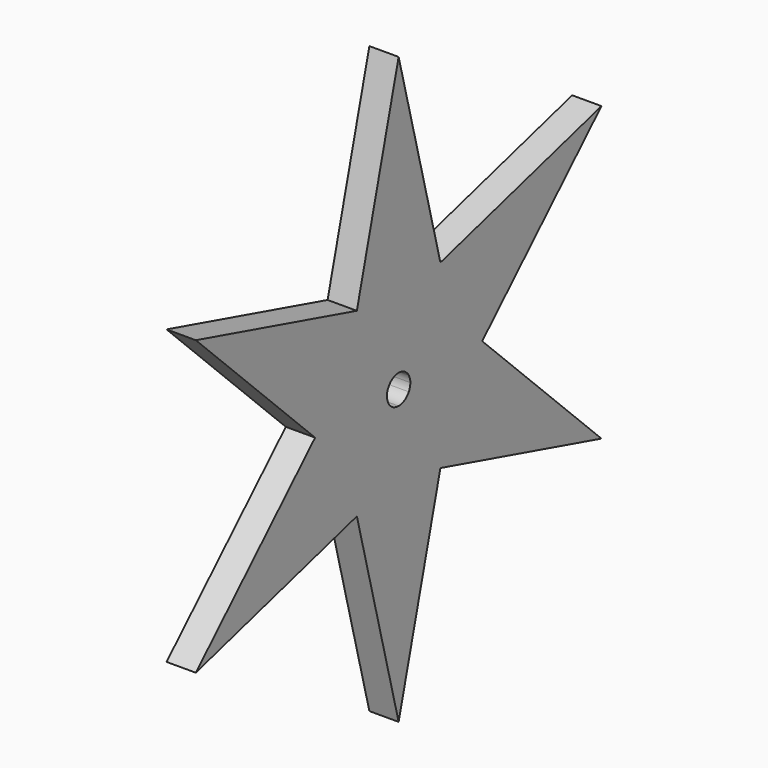
from build123d import *

# Parameters (mm, degrees)
F1_DEPTH = 5.08


with BuildPart() as f1:
    # F0 (on Right) → F1 (new body)
    with BuildSketch(Plane.YZ):
        with BuildLine():
            Line((0, -13.1807618078), (-3.3987304051, -12.2367737428))
            ThreePointArc((-3.3987304051, -12.2367737428), (-6.35, -10.9985226281), (-8.8979917191, -9.0617737428))
            Line((-8.8979917191, -9.0617737428), (-11.4148745668, -6.5903809039))
            Line((-11.4148745668, -6.5903809039), (-9.0632810802, -15.6980633142))
            Line((-9.0632810802, -15.6980633142), (0, -13.1807618078))
        make_face()
        with BuildLine():
            ThreePointArc((-8.8979917191, 9.0617737428), (-6.35, 10.9985226281), (-3.3987304051, 12.2367737428))
            Line((-3.3987304051, 12.2367737428), (0, 13.1807618078))
            Line((0, 13.1807618078), (-9.0632810802, 15.6980633142))
            Line((-9.0632810802, 15.6980633142), (-11.4148745668, 6.5903809039))
            Line((-11.4148745668, 6.5903809039), (-8.8979917191, 9.0617737428))
        make_face()
        with BuildLine():
            ThreePointArc((-2.1997045256, -1.27), (-2.54, 0), (-2.1997045256, 1.27))
            Line((-2.1997045256, 1.27), (-10.9985226281, 6.35))
            ThreePointArc((-10.9985226281, 6.35), (-11.7553078763, 4.8065306337), (-12.2967221242, 3.175))
            ThreePointArc((-12.2967221242, 3.175), (-12.7, 0), (-12.2967221242, -3.175))
            ThreePointArc((-12.2967221242, -3.175), (-11.7553078763, -4.8065306337), (-10.9985226281, -6.35))
            Line((-10.9985226281, -6.35), (-2.1997045256, -1.27))
        make_face()
        with BuildLine():
            Line((0, -12.7), (0, -2.54))
            ThreePointArc((0, -2.54), (-1.27, -2.1997045256), (-2.1997045256, -1.27))
            Line((-2.1997045256, -1.27), (-10.9985226281, -6.35))
            ThreePointArc((-10.9985226281, -6.35), (-10.040231571, -7.7771299333), (-8.8979917191, -9.0617737428))
            ThreePointArc((-8.8979917191, -9.0617737428), (-6.35, -10.9985226281), (-3.3987304051, -12.2367737428))
            ThreePointArc((-3.3987304051, -12.2367737428), (-1.7150763053, -12.5836605671), (0, -12.7))
        make_face()
        with BuildLine():
            ThreePointArc((0, 2.54), (1.27, 2.1997045256), (2.1997045256, 1.27))
            Line((2.1997045256, 1.27), (10.9985226281, 6.35))
            ThreePointArc((10.9985226281, 6.35), (10.040231571, 7.7771299333), (8.8979917191, 9.0617737428))
            ThreePointArc((8.8979917191, 9.0617737428), (6.35, 10.9985226281), (3.3987304051, 12.2367737428))
            ThreePointArc((3.3987304051, 12.2367737428), (1.7150763053, 12.5836605671), (0, 12.7))
            Line((0, 12.7), (0, 2.54))
        make_face()
        with BuildLine():
            Line((11.4148745668, -6.5903809039), (8.8979917191, -9.0617737428))
            ThreePointArc((8.8979917191, -9.0617737428), (6.35, -10.9985226281), (3.3987304051, -12.2367737428))
            Line((3.3987304051, -12.2367737428), (0, -13.1807618078))
            Line((0, -13.1807618078), (9.0632810802, -15.6980633142))
            Line((9.0632810802, -15.6980633142), (11.4148745668, -6.5903809039))
        make_face()
        with BuildLine():
            Line((11.4148745668, 6.5903809039), (12.2967221242, 3.175))
            ThreePointArc((12.2967221242, 3.175), (12.5987771426, 1.6002545145), (12.7, 0))
            ThreePointArc((12.7, 0), (12.5987771426, -1.6002545145), (12.2967221242, -3.175))
            Line((12.2967221242, -3.175), (11.4148745668, -6.5903809039))
            Line((11.4148745668, -6.5903809039), (18.1265621605, 0))
            Line((18.1265621605, 0), (11.4148745668, 6.5903809039))
        make_face()
        with BuildLine():
            ThreePointArc((3.3987304051, 12.2367737428), (6.35, 10.9985226281), (8.8979917191, 9.0617737428))
            Line((8.8979917191, 9.0617737428), (11.4148745668, 6.5903809039))
            Line((11.4148745668, 6.5903809039), (9.0632810802, 15.6980633142))
            Line((9.0632810802, 15.6980633142), (0, 13.1807618078))
            Line((0, 13.1807618078), (3.3987304051, 12.2367737428))
        make_face()
        with BuildLine():
            ThreePointArc((-12.2967221242, -3.175), (-12.7, 0), (-12.2967221242, 3.175))
            Line((-12.2967221242, 3.175), (-11.4148745668, 6.5903809039))
            Line((-11.4148745668, 6.5903809039), (-18.1265621605, 0))
            Line((-18.1265621605, 0), (-11.4148745668, -6.5903809039))
            Line((-11.4148745668, -6.5903809039), (-12.2967221242, -3.175))
        make_face()
        with BuildLine():
            Line((-11.4148745668, 6.5903809039), (-10.9985226281, 6.35))
            ThreePointArc((-10.9985226281, 6.35), (-10.040231571, 7.7771299333), (-8.8979917191, 9.0617737428))
            Line((-8.8979917191, 9.0617737428), (-11.4148745668, 6.5903809039))
        make_face()
        with BuildLine():
            Line((11.4148745668, 6.5903809039), (10.9985226281, 6.35))
            ThreePointArc((10.9985226281, 6.35), (11.7553078763, 4.8065306337), (12.2967221242, 3.175))
            Line((12.2967221242, 3.175), (11.4148745668, 6.5903809039))
        make_face()
        with BuildLine():
            ThreePointArc((3.3987304051, -12.2367737428), (1.7150763053, -12.5836605671), (0, -12.7))
            Line((0, -12.7), (0, -13.1807618078))
            Line((0, -13.1807618078), (3.3987304051, -12.2367737428))
        make_face()
        with BuildLine():
            ThreePointArc((-2.1997045256, 1.27), (-1.27, 2.1997045256), (0, 2.54))
            Line((0, 2.54), (0, 12.7))
            ThreePointArc((0, 12.7), (-1.7150763053, 12.5836605671), (-3.3987304051, 12.2367737428))
            ThreePointArc((-3.3987304051, 12.2367737428), (-6.35, 10.9985226281), (-8.8979917191, 9.0617737428))
            ThreePointArc((-8.8979917191, 9.0617737428), (-10.040231571, 7.7771299333), (-10.9985226281, 6.35))
            Line((-10.9985226281, 6.35), (-2.1997045256, 1.27))
        make_face()
        with BuildLine():
            ThreePointArc((2.1997045256, 1.27), (2.4534515988, 0.6574003746), (2.54, 0))
            ThreePointArc((2.54, 0), (2.4534515988, -0.6574003746), (2.1997045256, -1.27))
            Line((2.1997045256, -1.27), (10.9985226281, -6.35))
            ThreePointArc((10.9985226281, -6.35), (11.7553078763, -4.8065306337), (12.2967221242, -3.175))
            ThreePointArc((12.2967221242, -3.175), (12.5987771426, -1.6002545145), (12.7, 0))
            ThreePointArc((12.7, 0), (12.5987771426, 1.6002545145), (12.2967221242, 3.175))
            ThreePointArc((12.2967221242, 3.175), (11.7553078763, 4.8065306337), (10.9985226281, 6.35))
            Line((10.9985226281, 6.35), (2.1997045256, 1.27))
        make_face()
        with BuildLine():
            Line((10.9985226281, -6.35), (2.1997045256, -1.27))
            ThreePointArc((2.1997045256, -1.27), (1.27, -2.1997045256), (0, -2.54))
            Line((0, -2.54), (0, -12.7))
            ThreePointArc((0, -12.7), (1.7150763053, -12.5836605671), (3.3987304051, -12.2367737428))
            ThreePointArc((3.3987304051, -12.2367737428), (6.35, -10.9985226281), (8.8979917191, -9.0617737428))
            ThreePointArc((8.8979917191, -9.0617737428), (10.040231571, -7.7771299333), (10.9985226281, -6.35))
        make_face()
        Polygon((9.0632810802, -15.6980633142), (0, -13.1807618078), (0, -50.8), align=None)
        Polygon((0, -50.8), (0, -13.1807618078), (-9.0632810802, -15.6980633142), align=None)
        Polygon((-9.0632810802, -15.6980633142), (-11.4148745668, -6.5903809039), (-43.9940905122, -25.4), align=None)
        Polygon((-43.9940905122, -25.4), (-11.4148745668, -6.5903809039), (-18.1265621605, 0), align=None)
        Polygon((-43.9940905122, 25.4), (-11.4148745668, 6.5903809039), (-9.0632810802, 15.6980633142), align=None)
        Polygon((-9.0632810802, 15.6980633142), (0, 13.1807618078), (0, 50.8), align=None)
        Polygon((0, 50.8), (0, 13.1807618078), (9.0632810802, 15.6980633142), align=None)
        Polygon((9.0632810802, 15.6980633142), (11.4148745668, 6.5903809039), (43.9940905122, 25.4), align=None)
        Polygon((43.9940905122, 25.4), (11.4148745668, 6.5903809039), (18.1265621605, 0), align=None)
        Polygon((43.9940905122, -25.4), (11.4148745668, -6.5903809039), (9.0632810802, -15.6980633142), align=None)
        Polygon((18.1265621605, 0), (11.4148745668, -6.5903809039), (43.9940905122, -25.4), align=None)
        Polygon((-18.1265621605, 0), (-11.4148745668, 6.5903809039), (-43.9940905122, 25.4), align=None)
        with BuildLine():
            ThreePointArc((-8.8979917191, -9.0617737428), (-10.040231571, -7.7771299333), (-10.9985226281, -6.35))
            Line((-10.9985226281, -6.35), (-11.4148745668, -6.5903809039))
            Line((-11.4148745668, -6.5903809039), (-8.8979917191, -9.0617737428))
        make_face()
        with BuildLine():
            Line((-11.4148745668, -6.5903809039), (-10.9985226281, -6.35))
            ThreePointArc((-10.9985226281, -6.35), (-11.7553078763, -4.8065306337), (-12.2967221242, -3.175))
            Line((-12.2967221242, -3.175), (-11.4148745668, -6.5903809039))
        make_face()
        with BuildLine():
            Line((0, -13.1807618078), (0, -12.7))
            ThreePointArc((0, -12.7), (-1.7150763053, -12.5836605671), (-3.3987304051, -12.2367737428))
            Line((-3.3987304051, -12.2367737428), (0, -13.1807618078))
        make_face()
        with BuildLine():
            Line((11.4148745668, -6.5903809039), (10.9985226281, -6.35))
            ThreePointArc((10.9985226281, -6.35), (10.040231571, -7.7771299333), (8.8979917191, -9.0617737428))
            Line((8.8979917191, -9.0617737428), (11.4148745668, -6.5903809039))
        make_face()
        with BuildLine():
            ThreePointArc((12.2967221242, -3.175), (11.7553078763, -4.8065306337), (10.9985226281, -6.35))
            Line((10.9985226281, -6.35), (11.4148745668, -6.5903809039))
            Line((11.4148745668, -6.5903809039), (12.2967221242, -3.175))
        make_face()
        with BuildLine():
            ThreePointArc((-12.2967221242, 3.175), (-11.7553078763, 4.8065306337), (-10.9985226281, 6.35))
            Line((-10.9985226281, 6.35), (-11.4148745668, 6.5903809039))
            Line((-11.4148745668, 6.5903809039), (-12.2967221242, 3.175))
        make_face()
        with BuildLine():
            ThreePointArc((-3.3987304051, 12.2367737428), (-1.7150763053, 12.5836605671), (0, 12.7))
            Line((0, 12.7), (0, 13.1807618078))
            Line((0, 13.1807618078), (-3.3987304051, 12.2367737428))
        make_face()
        with BuildLine():
            Line((0, 13.1807618078), (0, 12.7))
            ThreePointArc((0, 12.7), (1.7150763053, 12.5836605671), (3.3987304051, 12.2367737428))
            Line((3.3987304051, 12.2367737428), (0, 13.1807618078))
        make_face()
        with BuildLine():
            ThreePointArc((8.8979917191, 9.0617737428), (10.040231571, 7.7771299333), (10.9985226281, 6.35))
            Line((10.9985226281, 6.35), (11.4148745668, 6.5903809039))
            Line((11.4148745668, 6.5903809039), (8.8979917191, 9.0617737428))
        make_face()
    extrude(amount=F1_DEPTH)


solid = f1.part
